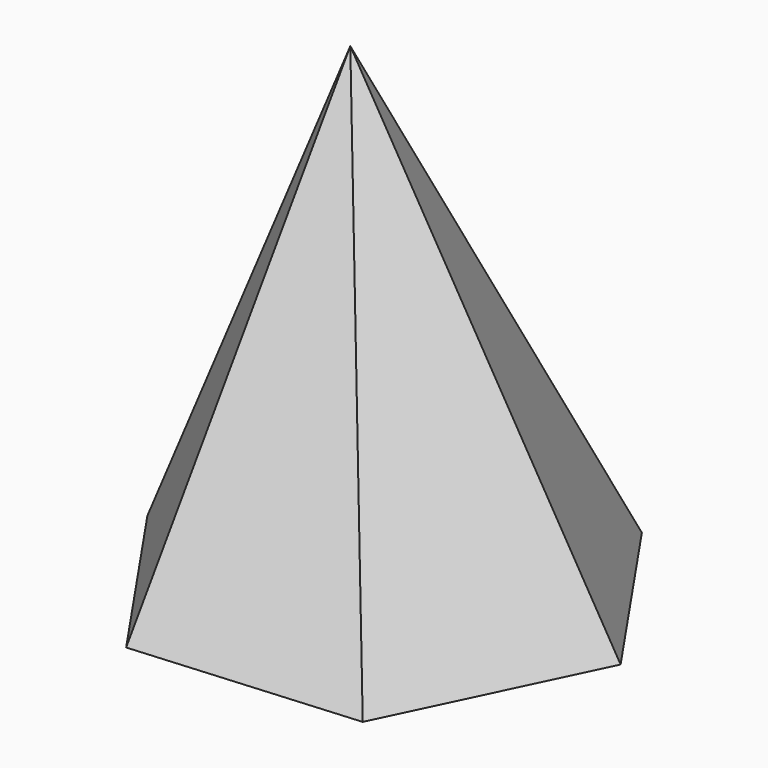
from build123d import *


with BuildPart() as f3:
    # F0 (on Top) → F3 section 0
    with BuildSketch(Plane.XY, mode=Mode.PRIVATE) as f3_s0:
        Polygon((-56.53547, -4.581544), (-22.8, -53.850003), (36.735471, -49.268458), (62.535473, 4.581544), (28.800003, 53.850003), (-30.735468, 49.268458), align=None)
    loft([f3_s0.sketch, Vertex(-5.998833, 0, 125)])


solid = f3.part
